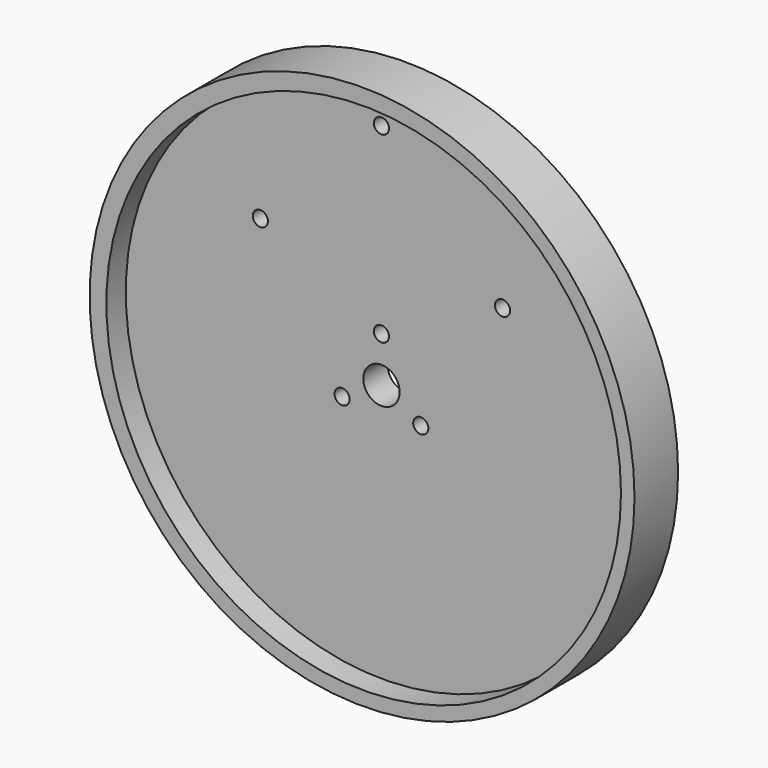
from build123d import *

# Parameters (mm, degrees)
F0_R     = 85
F0_R_2   = 2.5
F0_R_3   = 6
F1_DEPTH = 5
F0_R_4   = 90
F2_DEPTH = 18
F3_DEPTH = 10


with BuildPart() as f1:
    # F0 (on Front) → F1 (new body)
    with BuildSketch(Plane.XZ):
        with Locations((0.529671, -0.305805)):
            Circle(F0_R)
        with Locations((-12.990381, -7.5)):
            Circle(F0_R_2, mode=Mode.SUBTRACT)
        with Locations((12.990381, -7.5)):
            Circle(F0_R_2, mode=Mode.SUBTRACT)
        with Locations((-40, 35.5)):
            Circle(F0_R_2, mode=Mode.SUBTRACT)
        Circle(F0_R_3, mode=Mode.SUBTRACT)
        with Locations((0, 15)):
            Circle(F0_R_2, mode=Mode.SUBTRACT)
        with Locations((40, 35.5)):
            Circle(F0_R_2, mode=Mode.SUBTRACT)
        with Locations((0, 75.5)):
            Circle(F0_R_2, mode=Mode.SUBTRACT)
    extrude(amount=F1_DEPTH)

    # F0 (on Front) → F2 (join)
    with BuildSketch(Plane.XZ):
        Circle(F0_R_4)
        with Locations((0.529671, -0.305805)):
            Circle(F0_R, mode=Mode.SUBTRACT)
    extrude(amount=F2_DEPTH)

    # F0 (on Front) → F3 (join)
    with BuildSketch(Plane.XZ):
        with Locations((0.529671, -0.305805)):
            Circle(F0_R)
        with Locations((-12.990381, -7.5)):
            Circle(F0_R_2, mode=Mode.SUBTRACT)
        with Locations((12.990381, -7.5)):
            Circle(F0_R_2, mode=Mode.SUBTRACT)
        with Locations((-40, 35.5)):
            Circle(F0_R_2, mode=Mode.SUBTRACT)
        Circle(F0_R_3, mode=Mode.SUBTRACT)
        with Locations((0, 15)):
            Circle(F0_R_2, mode=Mode.SUBTRACT)
        with Locations((40, 35.5)):
            Circle(F0_R_2, mode=Mode.SUBTRACT)
        with Locations((0, 75.5)):
            Circle(F0_R_2, mode=Mode.SUBTRACT)
    extrude(amount=F3_DEPTH)


solid = f1.part
